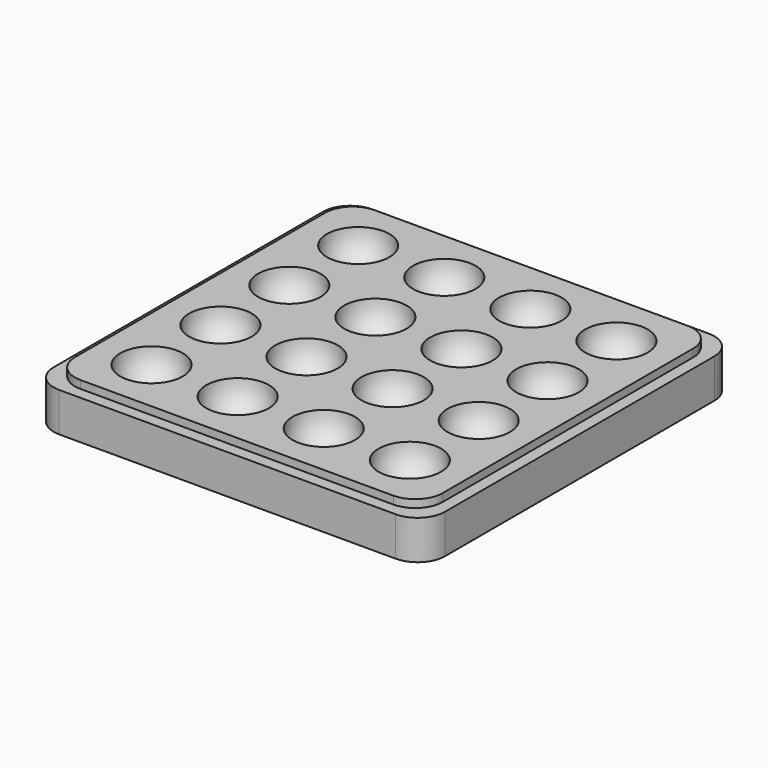
from build123d import *

# Parameters (mm, degrees)
ARRAY_X_COUNT = 4
ARRAY_X_PITCH = 22
ARRAY_Y_COUNT = 4
ARRAY_Y_PITCH = 22
BOX_W         = 100
BOX_H         = 100
BOX_DEPTH     = 10
FILLET_R      = 7
BOX001_W      = 94
BOX001_H      = 94
BOX001_DEPTH  = 2
FILLET001_R   = 7


with BuildPart() as array:
    # Sphere → Sphere (revolve)
    with BuildSketch(Plane(origin=(17, 17, 12), x_dir=(1, 0, 0), z_dir=(0, -1, 0))):
        with BuildLine():
            ThreePointArc((0, -8), (8, 0), (0, 8))
            Line((0, 8), (0, -8))
        make_face()
    revolve(axis=Axis((17, 17, 12), (0, 0, 1)))

    # Array X: Array ×4


with BuildPart() as array_1:
    add(array.part)
    with Locations(*[(i * ARRAY_X_PITCH, 0, 0) for i in range(1, ARRAY_X_COUNT)]):
        add(array.part)

    # Array Y: Array ×4


with BuildPart() as array_2:
    add(array_1.part)
    with Locations(*[(0, i * ARRAY_Y_PITCH, 0) for i in range(1, ARRAY_Y_COUNT)]):
        add(array_1.part)


with BuildPart() as body_with_fillets:
    # Box → Box (new body)
    with BuildSketch(Plane.XY):
        with Locations((50, 50)):
            Rectangle(BOX_W, BOX_H)
    extrude(amount=BOX_DEPTH)

    # Fillet
    fillet_edges = [body_with_fillets.edges().sort_by_distance(p)[0] for p in [
        (0, 0, 5),
        (0, 100, 5),
        (100, 0, 5),
        (100, 100, 5),
    ]]
    fillet(fillet_edges, radius=FILLET_R)


with BuildPart() as well_palette:
    # Box001 → Box001 (new body)
    with BuildSketch(Plane(origin=(3, 3, 10), x_dir=(1, 0, 0), z_dir=(0, 0, 1))):
        with Locations((47, 47)):
            Rectangle(BOX001_W, BOX001_H)
    extrude(amount=BOX001_DEPTH)

    # Fillet001
    fillet001_edges = [well_palette.edges().sort_by_distance(p)[0] for p in [
        (3, 3, 11),
        (3, 97, 11),
        (97, 3, 11),
        (97, 97, 11),
    ]]
    fillet(fillet001_edges, radius=FILLET001_R)

    # Fusion: union Body with fillets
    add(body_with_fillets.part)

    # Cut: cut Array
    add(array_2.part, mode=Mode.SUBTRACT)


solid = well_palette.part
